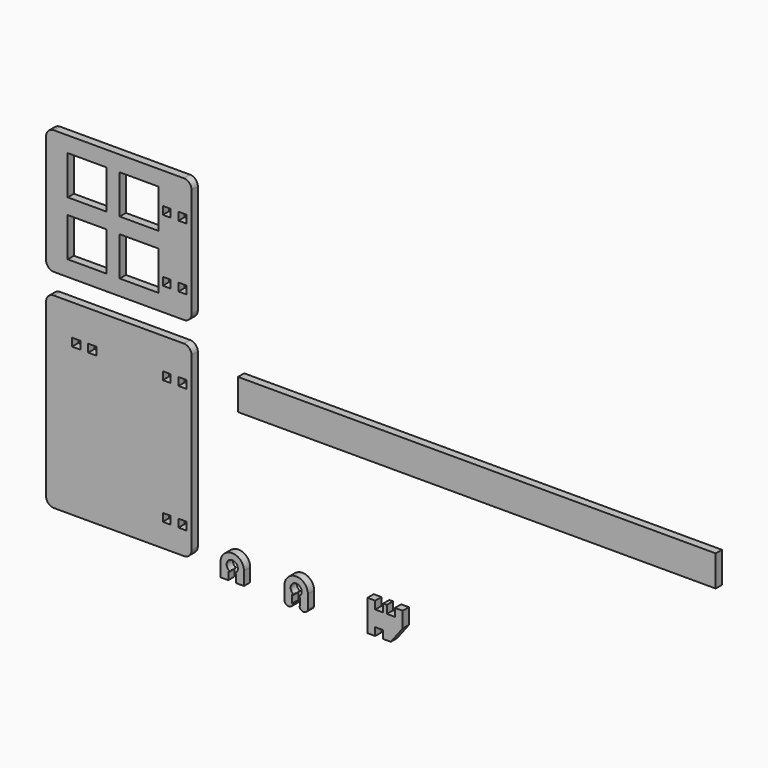
from build123d import *

# Parameters (mm, degrees)
F1_DEPTH  = 3
F2_W      = 56
F2_H      = 48
F2_H_2    = 72
F3_DEPTH  = 3
F4_W      = 3.04
F4_H      = 3.04
F5_DEPTH  = 3.001
F4_W_2    = 3.2
F6_DEPTH  = 25
F7_W      = 15
F7_H      = 15
F8_DEPTH  = 3.001
F9_R      = 3
F10_W     = 183.85
F10_H     = 11.92
F11_DEPTH = 3


with BuildPart() as f1:
    # F0 (on Front) → F1 (new body)
    with BuildSketch(Plane.XZ):
        with BuildLine():
            ThreePointArc((-1.080397, 0.666172), (0.03848, 4.674656), (1.013178, 0.628695))
            ThreePointArc((1.013178, 0.628695), (0.950886, 0.482418), (1.068098, 0.375))
            Line((1.068098, 0.375), (1.1027, 0.375))
            Line((1.1027, 0.375), (1.525, 0.375))
            Line((1.525, 0.375), (1.525, -2.625))
            Line((1.525, -2.625), (4.525, -2.625))
            Line((4.525, -2.625), (4.525, 2.525))
            ThreePointArc((4.525, 2.525), (0, 7.05), (-4.525, 2.525))
            Line((-4.525, 2.525), (-4.525, -2.625))
            Line((-4.525, -2.625), (-1.525, -2.625))
            Line((-1.525, -2.625), (-1.525, 0.375))
            Line((-1.525, 0.375), (-1.084463, 0.375))
            ThreePointArc((-1.084463, 0.375), (-0.995149, 0.515884), (-1.074369, 0.662681))
            ThreePointArc((-1.074369, 0.662681), (-1.077384, 0.664424), (-1.080397, 0.666172))
        make_face()
        with BuildLine():
            ThreePointArc((23.545929, 0.807019), (24.651796, 4.768893), (25.61516, 0.769978))
            ThreePointArc((25.61516, 0.769978), (25.559911, 0.621037), (25.681861, 0.519233))
            Line((25.681861, 0.519233), (25.703969, 0.519233))
            Line((25.703969, 0.519233), (26.138763, 0.519233))
            Line((26.138763, 0.519233), (26.138763, -2.480767))
            Line((26.138763, -2.480767), (25.838763, -2.480767))
            ThreePointArc((25.838763, -2.480767), (27.489646, -3.943721), (29.140529, -2.480767))
            Line((29.140529, -2.480767), (29.140529, 2.669233))
            ThreePointArc((29.140529, 2.669233), (24.601263, 7.171051), (20.086928, 2.644233))
            Line((20.086928, 2.644233), (20.086928, -2.490617))
            ThreePointArc((20.086928, -2.490617), (21.742197, -3.944354), (23.388763, -2.480767))
            Line((23.388763, -2.480767), (23.088763, -2.480767))
            Line((23.088763, -2.480767), (23.088763, 0.519233))
            Line((23.088763, 0.519233), (23.54803, 0.519233))
            ThreePointArc((23.54803, 0.519233), (23.631228, 0.660299), (23.551887, 0.803569))
            ThreePointArc((23.551887, 0.803569), (23.548907, 0.805292), (23.545929, 0.807019))
        make_face()
        Polygon((58.058467, -3.149642), (61.038467, -3.149642), (65.608467, 2.850358), (65.608467, 8.850358), (62.608467, 8.850358), (62.608467, 5.810358), (59.508467, 5.810358), (59.508467, 8.850358), (58.058467, 8.850358), (58.058467, 5.830358), (55.018467, 5.830358), (55.018467, 8.850358), (52.038467, 8.850358), (52.038467, -3.149642), (55.018467, -3.149642), (55.018467, -0.129642), (58.058467, -0.129642), align=None)
    extrude(amount=F1_DEPTH)


with BuildPart() as f3:
    # F2 (on Front) → F3 (new body)
    with BuildSketch(Plane.XZ):
        with Locations((-43.634039, 104)):
            Rectangle(F2_W, F2_H)
        with Locations((-43.634039, 36)):
            Rectangle(F2_W, F2_H_2)
    extrude(amount=F3_DEPTH)

    # F4 (on face) → F5 (cut, through all)
    with BuildSketch(Plane.XZ.offset(3)):
        with Locations((-25.204039, 114.48)):
            Rectangle(F4_W, F4_H)
        with Locations((-19.154039, 114.48)):
            Rectangle(F4_W, F4_H)
        with Locations((-25.204039, 90.48)):
            Rectangle(F4_W, F4_H)
        with Locations((-19.154039, 90.48)):
            Rectangle(F4_W, F4_H)
        with Locations((-25.204039, 58.48)):
            Rectangle(F4_W, F4_H)
        with Locations((-19.154039, 58.48)):
            Rectangle(F4_W, F4_H)
        with Locations((-25.204039, 10.48)):
            Rectangle(F4_W, F4_H)
        with Locations((-19.154039, 10.48)):
            Rectangle(F4_W, F4_H)
    extrude(amount=-F5_DEPTH, mode=Mode.SUBTRACT)

    # F4 (on face) → F6 (cut)
    with BuildSketch(Plane.XZ.offset(3)):
        with Locations((-25.204039, 10.48)):
            Rectangle(F4_W, F4_H)
        with Locations((-19.154039, 10.48)):
            Rectangle(F4_W, F4_H)
        with Locations((-25.204039, 58.48)):
            Rectangle(F4_W, F4_H)
        with Locations((-19.154039, 58.48)):
            Rectangle(F4_W, F4_H)
        with Locations((-25.204039, 90.48)):
            Rectangle(F4_W, F4_H)
        with Locations((-19.154039, 90.48)):
            Rectangle(F4_W, F4_H)
        with Locations((-25.204039, 114.48)):
            Rectangle(F4_W, F4_H)
        with Locations((-19.154039, 114.48)):
            Rectangle(F4_W, F4_H)
        with Locations((-60.034039, 58.48)):
            Rectangle(F4_W_2, F4_H)
        with Locations((-53.824039, 58.48)):
            Rectangle(F4_W_2, F4_H)
    extrude(amount=-F6_DEPTH, mode=Mode.SUBTRACT)

    # F7 (on face) → F8 (cut, through all)
    with BuildSketch(Plane.XZ.offset(3)):
        with Locations((-55.797357, 114.5)):
            Rectangle(F7_W, F7_H)
        with Locations((-35.797357, 114.5)):
            Rectangle(F7_W, F7_H)
        with Locations((-35.797357, 93.5)):
            Rectangle(F7_W, F7_H)
        with Locations((-55.797357, 93.5)):
            Rectangle(F7_W, F7_H)
    extrude(amount=-F8_DEPTH, mode=Mode.SUBTRACT)

    # F9
    f9_edges = [f3.edges().sort_by_distance(p)[0] for p in [
        (-71.634039, -1.5, 128),
        (-71.634039, -1.5, 72),
        (-15.634039, -1.5, 72),
        (-71.634039, -1.5, 80),
        (-15.634039, -1.5, 80),
        (-15.634039, -1.5, 128),
        (-71.634039, -1.5, 0),
        (-15.634039, -1.5, 0),
    ]]
    fillet(f9_edges, radius=F9_R)


with BuildPart() as f11:
    # F10 (on Front) → F11 (new body)
    with BuildSketch(Plane.XZ):
        with Locations((94.134845, 61.512005)):
            Rectangle(F10_W, F10_H)
    extrude(amount=F11_DEPTH)


solid = Compound([f1.part, f3.part, f11.part])
